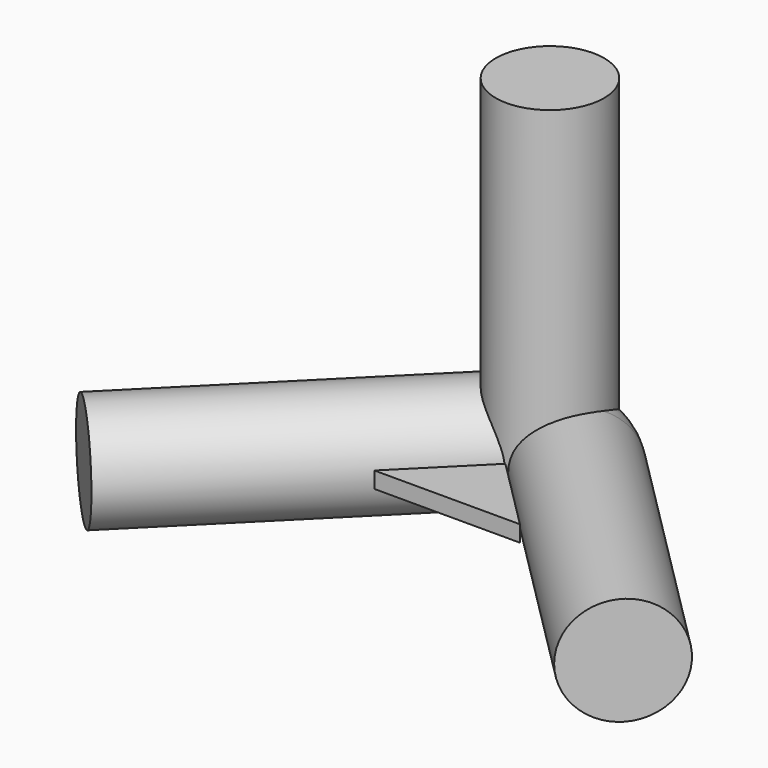
from build123d import *

# Parameters (mm, degrees)
F6_R     = 10
F2_R     = 10
F9_DEPTH = 1.5


with BuildPart() as f7:
    # F7: sweep along a path in F4
    with BuildLine(Plane.XZ.offset(-10)) as f7_path:
        Line((0, 0), (0, 60))
    # F6 (on offset) → F7 (sweep)
    with BuildSketch(Plane.XY.offset(60)):
        with Locations((0, 10.290014)):
            Circle(F6_R)
    sweep(path=f7_path.line)


with BuildPart() as f8:
    # F8: sweep along a path in F0
    with BuildLine(Plane.XY) as f8_path:
        Line((-49.497475, -35.355339), (-7.071068, 7.071068))
        ThreePointArc((-7.071068, 7.071068), (0, 10), (7.071068, 7.071068))
        Line((7.071068, 7.071068), (49.497475, -35.355339))
    # F2 (on face) → F8 (sweep)
    with BuildSketch(Plane(origin=(-42.426407, -42.426407, 0), x_dir=(0.707107, -0.707107, 0), z_dir=(-0.707107, -0.707107, 0))):
        with Locations((-10.405264, 0)):
            Circle(F2_R)
    sweep(path=f8_path.line)


with BuildPart() as f9:
    # F0 (on Top) → F9 (new body, symmetric)
    with BuildSketch(Plane.XY):
        Polygon((13.435555, -13.435555), (0, 0), (-13.435555, -13.435555), align=None)
    extrude(amount=F9_DEPTH, both=True)


solid = Compound([f7.part, f8.part, f9.part])
